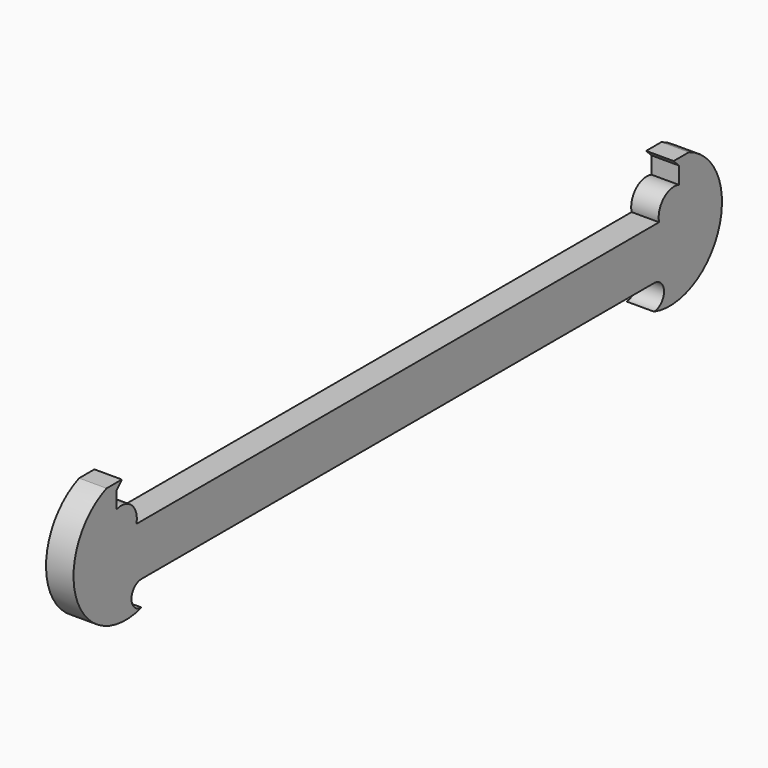
from build123d import *

# Parameters (mm, degrees)
F1_DEPTH = 3


with BuildPart() as f1:
    # F0 (on Right) → F1 (new body)
    with BuildSketch(Plane.YZ):
        with BuildLine():
            Line((-34.952577, -0.875086), (0, -0.875086))
            Line((0, -0.875086), (34.952577, -0.875086))
            ThreePointArc((34.952577, -0.875086), (36.32333, -2.245839), (34.952577, -3.616591))
            ThreePointArc((34.952577, -3.616591), (43.813866, 0.767528), (39.71675, 9.765116))
            Line((39.71675, 9.765116), (37.631799, 9.765116))
            Line((37.631799, 9.765116), (38.35, 9.040914))
            Line((38.35, 9.040914), (38.35, 7.190914))
            ThreePointArc((38.35, 7.190914), (36.270899, 6.728344), (35.65, 4.690914))
            Line((35.65, 4.690914), (0, 4.690914))
            Line((0, 4.690914), (-35.65, 4.690914))
            ThreePointArc((-35.65, 4.690914), (-36.270899, 6.728344), (-38.35, 7.190914))
            Line((-38.35, 7.190914), (-38.35, 9.040914))
            Line((-38.35, 9.040914), (-37.631799, 9.765116))
            Line((-37.631799, 9.765116), (-39.71675, 9.765116))
            ThreePointArc((-39.71675, 9.765116), (-43.813866, 0.767528), (-34.952577, -3.616591))
            ThreePointArc((-34.952577, -3.616591), (-36.32333, -2.245839), (-34.952577, -0.875086))
        make_face()
    extrude(amount=F1_DEPTH)


solid = f1.part
